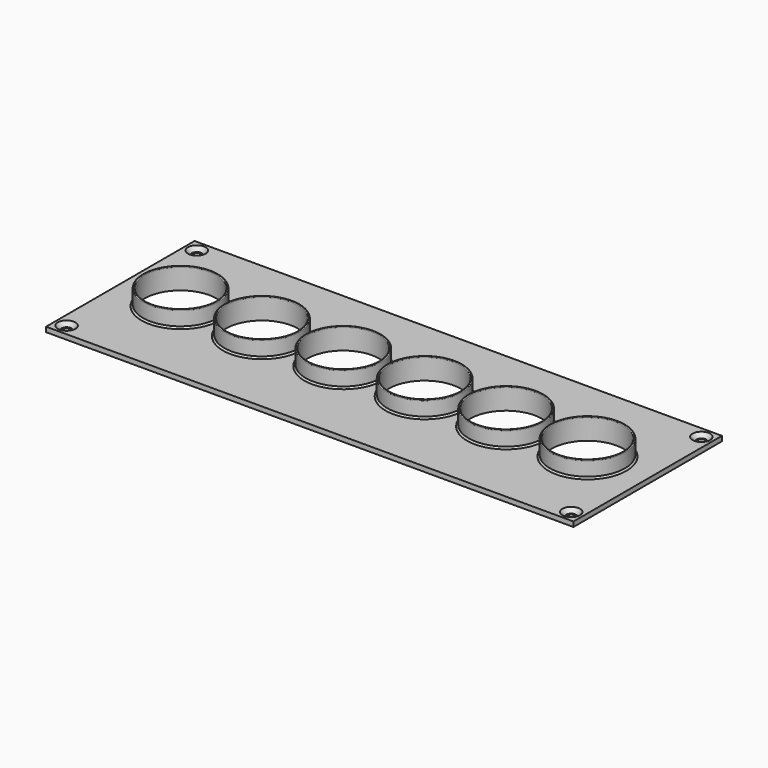
from build123d import *

# Parameters (mm, degrees)
SKETCH005_W      = 162
SKETCH005_H      = 57
SKETCH005_R      = 11
PAD005_DEPTH     = 1.5
HOLE_D           = 3
HOLE_DEPTH       = 25
HOLE_CSINK_D     = 5.4
HOLE_CSINK_ANGLE = 90
SKETCH010_R      = 11.5
SKETCH010_R_2    = 11
PAD007_DEPTH     = 5
FILLET_R         = 0.24
CHAMFER_SIZE     = 0.5


with BuildPart() as part:
    # Sketch005 → Pad005 (new body)
    with BuildSketch(Plane.XY):
        with Locations((75, 22.5)):
            Rectangle(SKETCH005_W, SKETCH005_H)
        with Locations((12.5, 22.5)):
            Circle(SKETCH005_R, mode=Mode.SUBTRACT)
        with Locations((37.5, 22.5)):
            Circle(SKETCH005_R, mode=Mode.SUBTRACT)
        with Locations((62.5, 22.5)):
            Circle(SKETCH005_R, mode=Mode.SUBTRACT)
        with Locations((87.5, 22.5)):
            Circle(SKETCH005_R, mode=Mode.SUBTRACT)
        with Locations((112.5, 22.5)):
            Circle(SKETCH005_R, mode=Mode.SUBTRACT)
        with Locations((137.5, 22.5)):
            Circle(SKETCH005_R, mode=Mode.SUBTRACT)
    extrude(amount=PAD005_DEPTH)

    # Hole
    with Locations(Plane.XY.offset(1.5)):
        with Locations((152.5, 47.5), (-2.5, 47.5), (-2.5, -2.5), (152.5, -2.5)):
            CounterSinkHole(HOLE_D / 2, HOLE_CSINK_D / 2, depth=HOLE_DEPTH, counter_sink_angle=HOLE_CSINK_ANGLE)

    # Sketch010 (on Face5 of Hole) → Pad007 (join)
    with BuildSketch(Plane.XY.offset(1.5)):
        with Locations((12.5, 22.5)):
            Circle(SKETCH010_R)
        with Locations((12.5, 22.5)):
            Circle(SKETCH010_R_2, mode=Mode.SUBTRACT)
        with Locations((37.5, 22.5)):
            Circle(SKETCH010_R)
        with Locations((37.5, 22.5)):
            Circle(SKETCH010_R_2, mode=Mode.SUBTRACT)
        with Locations((62.5, 22.5)):
            Circle(SKETCH010_R)
        with Locations((62.5, 22.5)):
            Circle(SKETCH010_R_2, mode=Mode.SUBTRACT)
        with Locations((87.5, 22.5)):
            Circle(SKETCH010_R)
        with Locations((87.5, 22.5)):
            Circle(SKETCH010_R_2, mode=Mode.SUBTRACT)
        with Locations((112.5, 22.5)):
            Circle(SKETCH010_R)
        with Locations((112.5, 22.5)):
            Circle(SKETCH010_R_2, mode=Mode.SUBTRACT)
        with Locations((137.5, 22.5)):
            Circle(SKETCH010_R)
        with Locations((137.5, 22.5)):
            Circle(SKETCH010_R_2, mode=Mode.SUBTRACT)
    extrude(amount=PAD007_DEPTH)

    # Fillet
    fillet_edges = [part.edges().sort_by_distance(p)[0] for p in [
        (26, 22.5, 6.5),
        (26.5, 22.5, 6.5),
        (51, 22.5, 6.5),
        (51.5, 22.5, 6.5),
        (76, 22.5, 6.5),
        (76.5, 22.5, 6.5),
        (101, 22.5, 6.5),
        (101.5, 22.5, 6.5),
        (126, 22.5, 6.5),
        (126.5, 22.5, 6.5),
        (1, 22.5, 6.5),
        (1.5, 22.5, 6.5),
    ]]
    fillet(fillet_edges, radius=FILLET_R)

    # Chamfer
    chamfer_edges = [part.edges().sort_by_distance(p)[0] for p in [
        (24, 22.5, 3.88),
        (1, 22.5, 6.26),
        (1, 22.5, 1.5),
        (49, 22.5, 3.88),
        (26, 22.5, 6.26),
        (26, 22.5, 1.5),
        (74, 22.5, 3.88),
        (51, 22.5, 6.26),
        (51, 22.5, 1.5),
        (99, 22.5, 3.88),
        (76, 22.5, 6.26),
        (76, 22.5, 1.5),
        (124, 22.5, 3.88),
        (101, 22.5, 6.26),
        (101, 22.5, 1.5),
        (149, 22.5, 3.88),
        (126, 22.5, 6.26),
        (126, 22.5, 1.5),
    ]]
    chamfer(chamfer_edges, length=CHAMFER_SIZE)


solid = part.part
